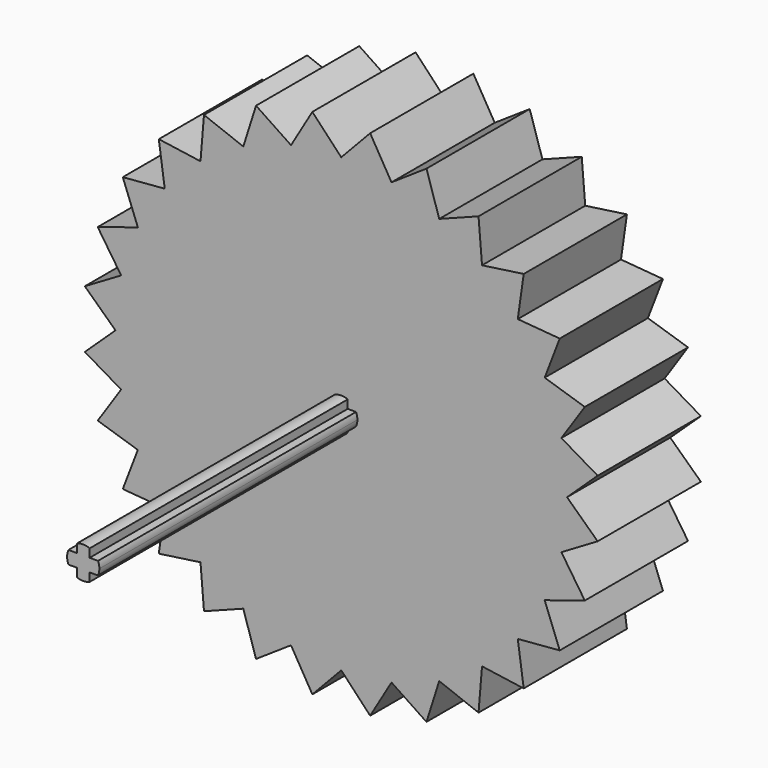
from build123d import *

# Parameters (mm, degrees)
F1_DEPTH = 5.08
F3_W     = 0.508
F3_H     = 0.508
F4_DEPTH = 12.7
F6_DEPTH = 2.54


with BuildPart() as f1:
    # F0 (on Front) → F1 (new body)
    with BuildSketch(Plane.XZ):
        with BuildLine():
            Line((-4.7297651602, 7.5273781311), (0, 0))
            Line((0, 0), (-3.8572264408, 8.0096132357))
            ThreePointArc((-3.8572264408, 8.0096132357), (-4.3002609064, 7.7807362208), (-4.7297651602, 7.5273781311))
        make_face()
        with BuildLine():
            Line((-5.5428243385, 6.9504818791), (0, 0))
            Line((0, 0), (-4.7297651602, 7.5273781311))
            ThreePointArc((-4.7297651602, 7.5273781311), (-5.144387823, 7.250336125), (-5.5428243385, 6.9504818791))
        make_face()
        with BuildLine():
            Line((-5.4054458974, 8.6027178642), (-5.5428243385, 6.9504818791))
            ThreePointArc((-5.5428243385, 6.9504818791), (-5.144387823, 7.250336125), (-4.7297651602, 7.5273781311))
            Line((-4.7297651602, 7.5273781311), (-5.4054458974, 8.6027178642))
        make_face()
        with BuildLine():
            Line((-5.4054458974, 8.6027178642), (-4.7297651602, 7.5273781311))
            ThreePointArc((-4.7297651602, 7.5273781311), (-4.3002609064, 7.7807362208), (-3.8572264408, 8.0096132357))
            Line((-3.8572264408, 8.0096132357), (-5.4054458974, 8.6027178642))
        make_face()
        with BuildLine():
            Line((-3.3556352695, 9.5898546359), (-3.8572264408, 8.0096132357))
            ThreePointArc((-3.8572264408, 8.0096132357), (-3.4020557137, 8.213289044), (-2.9361808608, 8.3911228064))
            Line((-2.9361808608, 8.3911228064), (-3.3556352695, 9.5898546359))
        make_face()
        with BuildLine():
            Line((-3.3556352695, 9.5898546359), (-2.9361808608, 8.3911228064))
            ThreePointArc((-2.9361808608, 8.3911228064), (-2.4610676966, 8.5425549921), (-1.9782111029, 8.6671091393))
            Line((-1.9782111029, 8.6671091393), (-3.3556352695, 9.5898546359))
        make_face()
        with BuildLine():
            Line((-2.9361808608, 8.3911228064), (0, 0))
            Line((0, 0), (-1.9782111029, 8.6671091393))
            ThreePointArc((-1.9782111029, 8.6671091393), (-2.4610676966, 8.5425549921), (-2.9361808608, 8.3911228064))
        make_face()
        with BuildLine():
            Line((-3.8572264408, 8.0096132357), (0, 0))
            Line((0, 0), (-2.9361808608, 8.3911228064))
            ThreePointArc((-2.9361808608, 8.3911228064), (-3.4020557137, 8.213289044), (-3.8572264408, 8.0096132357))
        make_face()
        with BuildLine():
            Line((-0.9953641926, 8.834101546), (0, 0))
            Line((0, 0), (0, 8.89))
            ThreePointArc((0, 8.89), (-0.4984662759, 8.8760143855), (-0.9953641926, 8.834101546))
        make_face()
        with BuildLine():
            ThreePointArc((-0.9953641926, 8.834101546), (-0.4984662759, 8.8760143855), (0, 8.89))
            Line((0, 8.89), (-1.1375590772, 10.0961160525))
            Line((-1.1375590772, 10.0961160525), (-0.9953641926, 8.834101546))
        make_face()
        with BuildLine():
            Line((-1.1375590772, 10.0961160525), (-1.9782111029, 8.6671091393))
            ThreePointArc((-1.9782111029, 8.6671091393), (-1.4891303252, 8.7643933546), (-0.9953641926, 8.834101546))
            Line((-0.9953641926, 8.834101546), (-1.1375590772, 10.0961160525))
        make_face()
        with BuildLine():
            Line((-1.9782111029, 8.6671091393), (0, 0))
            Line((0, 0), (-0.9953641926, 8.834101546))
            ThreePointArc((-0.9953641926, 8.834101546), (-1.4891303252, 8.7643933546), (-1.9782111029, 8.6671091393))
        make_face()
        with BuildLine():
            Line((-6.2861792847, 6.2861792847), (0, 0))
            Line((0, 0), (-5.5428243385, 6.9504818791))
            ThreePointArc((-5.5428243385, 6.9504818791), (-5.923821078, 6.6287588458), (-6.2861792847, 6.2861792847))
        make_face()
        with BuildLine():
            Line((-7.1842048969, 7.1842048969), (-6.2861792847, 6.2861792847))
            ThreePointArc((-6.2861792847, 6.2861792847), (-5.923821078, 6.6287588458), (-5.5428243385, 6.9504818791))
            Line((-5.5428243385, 6.9504818791), (-7.1842048969, 7.1842048969))
        make_face()
        with BuildLine():
            Line((-6.9504818791, 5.5428243385), (0, 0))
            Line((0, 0), (-6.2861792847, 6.2861792847))
            ThreePointArc((-6.2861792847, 6.2861792847), (-6.6287588458, 5.923821078), (-6.9504818791, 5.5428243385))
        make_face()
        with BuildLine():
            Line((-7.1842048969, 7.1842048969), (-6.9504818791, 5.5428243385))
            ThreePointArc((-6.9504818791, 5.5428243385), (-6.6287588458, 5.923821078), (-6.2861792847, 6.2861792847))
            Line((-6.2861792847, 6.2861792847), (-7.1842048969, 7.1842048969))
        make_face()
        with BuildLine():
            Line((-7.5273781311, 4.7297651602), (0, 0))
            Line((0, 0), (-6.9504818791, 5.5428243385))
            ThreePointArc((-6.9504818791, 5.5428243385), (-7.250336125, 5.144387823), (-7.5273781311, 4.7297651602))
        make_face()
        with BuildLine():
            Line((-8.6027178642, 5.4054458974), (-7.5273781311, 4.7297651602))
            ThreePointArc((-7.5273781311, 4.7297651602), (-7.250336125, 5.144387823), (-6.9504818791, 5.5428243385))
            Line((-6.9504818791, 5.5428243385), (-8.6027178642, 5.4054458974))
        make_face()
        with BuildLine():
            Line((-8.6027178642, 5.4054458974), (-8.0096132357, 3.8572264408))
            ThreePointArc((-8.0096132357, 3.8572264408), (-7.7807362208, 4.3002609064), (-7.5273781311, 4.7297651602))
            Line((-7.5273781311, 4.7297651602), (-8.6027178642, 5.4054458974))
        make_face()
        with BuildLine():
            Line((-8.0096132357, 3.8572264408), (0, 0))
            Line((0, 0), (-7.5273781311, 4.7297651602))
            ThreePointArc((-7.5273781311, 4.7297651602), (-7.7807362208, 4.3002609064), (-8.0096132357, 3.8572264408))
        make_face()
        with BuildLine():
            Line((-8.3911228064, 2.9361808608), (0, 0))
            Line((0, 0), (-8.0096132357, 3.8572264408))
            ThreePointArc((-8.0096132357, 3.8572264408), (-8.213289044, 3.4020557137), (-8.3911228064, 2.9361808608))
        make_face()
        with BuildLine():
            Line((-9.5898546359, 3.3556352695), (-8.3911228064, 2.9361808608))
            ThreePointArc((-8.3911228064, 2.9361808608), (-8.213289044, 3.4020557137), (-8.0096132357, 3.8572264408))
            Line((-8.0096132357, 3.8572264408), (-9.5898546359, 3.3556352695))
        make_face()
        with BuildLine():
            Line((-9.5898546359, 3.3556352695), (-8.6671091393, 1.9782111029))
            ThreePointArc((-8.6671091393, 1.9782111029), (-8.5425549921, 2.4610676966), (-8.3911228064, 2.9361808608))
            Line((-8.3911228064, 2.9361808608), (-9.5898546359, 3.3556352695))
        make_face()
        with BuildLine():
            Line((-8.6671091393, 1.9782111029), (0, 0))
            Line((0, 0), (-8.3911228064, 2.9361808608))
            ThreePointArc((-8.3911228064, 2.9361808608), (-8.5425549921, 2.4610676966), (-8.6671091393, 1.9782111029))
        make_face()
        with BuildLine():
            Line((-8.834101546, 0.9953641926), (0, 0))
            Line((0, 0), (-8.6671091393, 1.9782111029))
            ThreePointArc((-8.6671091393, 1.9782111029), (-8.7643933546, 1.4891303252), (-8.834101546, 0.9953641926))
        make_face()
        with BuildLine():
            Line((-10.0961160525, 1.1375590772), (-8.834101546, 0.9953641926))
            ThreePointArc((-8.834101546, 0.9953641926), (-8.7643933546, 1.4891303252), (-8.6671091393, 1.9782111029))
            Line((-8.6671091393, 1.9782111029), (-10.0961160525, 1.1375590772))
        make_face()
        with BuildLine():
            Line((-10.0961160525, 1.1375590772), (-8.89, 0))
            ThreePointArc((-8.89, 0), (-8.8760143855, 0.4984662759), (-8.834101546, 0.9953641926))
            Line((-8.834101546, 0.9953641926), (-10.0961160525, 1.1375590772))
        make_face()
        with BuildLine():
            Line((-8.89, 0), (0, 0))
            Line((0, 0), (-8.834101546, 0.9953641926))
            ThreePointArc((-8.834101546, 0.9953641926), (-8.8760143855, 0.4984662759), (-8.89, 0))
        make_face()
        with BuildLine():
            Line((-8.834101546, -0.9953641926), (0, 0))
            Line((0, 0), (-8.89, 0))
            ThreePointArc((-8.89, 0), (-8.8760143855, -0.4984662759), (-8.834101546, -0.9953641926))
        make_face()
        with BuildLine():
            Line((-10.0961160525, -1.1375590772), (-8.834101546, -0.9953641926))
            ThreePointArc((-8.834101546, -0.9953641926), (-8.8760143855, -0.4984662759), (-8.89, 0))
            Line((-8.89, 0), (-10.0961160525, -1.1375590772))
        make_face()
        with BuildLine():
            Line((-10.0961160525, -1.1375590772), (-8.6671091393, -1.9782111029))
            ThreePointArc((-8.6671091393, -1.9782111029), (-8.7643933546, -1.4891303252), (-8.834101546, -0.9953641926))
            Line((-8.834101546, -0.9953641926), (-10.0961160525, -1.1375590772))
        make_face()
        with BuildLine():
            Line((-8.6671091393, -1.9782111029), (0, 0))
            Line((0, 0), (-8.834101546, -0.9953641926))
            ThreePointArc((-8.834101546, -0.9953641926), (-8.7643933546, -1.4891303252), (-8.6671091393, -1.9782111029))
        make_face()
        with BuildLine():
            Line((-8.3911228064, -2.9361808608), (0, 0))
            Line((0, 0), (-8.6671091393, -1.9782111029))
            ThreePointArc((-8.6671091393, -1.9782111029), (-8.5425549921, -2.4610676966), (-8.3911228064, -2.9361808608))
        make_face()
        with BuildLine():
            Line((-9.5898546359, -3.3556352695), (-8.3911228064, -2.9361808608))
            ThreePointArc((-8.3911228064, -2.9361808608), (-8.5425549921, -2.4610676966), (-8.6671091393, -1.9782111029))
            Line((-8.6671091393, -1.9782111029), (-9.5898546359, -3.3556352695))
        make_face()
        with BuildLine():
            Line((-9.5898546359, -3.3556352695), (-8.0096132357, -3.8572264408))
            ThreePointArc((-8.0096132357, -3.8572264408), (-8.213289044, -3.4020557137), (-8.3911228064, -2.9361808608))
            Line((-8.3911228064, -2.9361808608), (-9.5898546359, -3.3556352695))
        make_face()
        with BuildLine():
            Line((-8.0096132357, -3.8572264408), (0, 0))
            Line((0, 0), (-8.3911228064, -2.9361808608))
            ThreePointArc((-8.3911228064, -2.9361808608), (-8.213289044, -3.4020557137), (-8.0096132357, -3.8572264408))
        make_face()
        with BuildLine():
            Line((-7.5273781311, -4.7297651602), (0, 0))
            Line((0, 0), (-8.0096132357, -3.8572264408))
            ThreePointArc((-8.0096132357, -3.8572264408), (-7.7807362208, -4.3002609064), (-7.5273781311, -4.7297651602))
        make_face()
        with BuildLine():
            Line((-8.6027178642, -5.4054458974), (-7.5273781311, -4.7297651602))
            ThreePointArc((-7.5273781311, -4.7297651602), (-7.7807362208, -4.3002609064), (-8.0096132357, -3.8572264408))
            Line((-8.0096132357, -3.8572264408), (-8.6027178642, -5.4054458974))
        make_face()
        with BuildLine():
            Line((-8.6027178642, -5.4054458974), (-6.9504818791, -5.5428243385))
            ThreePointArc((-6.9504818791, -5.5428243385), (-7.250336125, -5.144387823), (-7.5273781311, -4.7297651602))
            Line((-7.5273781311, -4.7297651602), (-8.6027178642, -5.4054458974))
        make_face()
        with BuildLine():
            Line((-6.9504818791, -5.5428243385), (0, 0))
            Line((0, 0), (-7.5273781311, -4.7297651602))
            ThreePointArc((-7.5273781311, -4.7297651602), (-7.250336125, -5.144387823), (-6.9504818791, -5.5428243385))
        make_face()
        with BuildLine():
            Line((-6.2861792847, -6.2861792847), (0, 0))
            Line((0, 0), (-6.9504818791, -5.5428243385))
            ThreePointArc((-6.9504818791, -5.5428243385), (-6.6287588458, -5.923821078), (-6.2861792847, -6.2861792847))
        make_face()
        with BuildLine():
            Line((-5.5428243385, -6.9504818791), (0, 0))
            Line((0, 0), (-6.2861792847, -6.2861792847))
            ThreePointArc((-6.2861792847, -6.2861792847), (-5.923821078, -6.6287588458), (-5.5428243385, -6.9504818791))
        make_face()
        with BuildLine():
            Line((-4.7297651602, -7.5273781311), (0, 0))
            Line((0, 0), (-5.5428243385, -6.9504818791))
            ThreePointArc((-5.5428243385, -6.9504818791), (-5.144387823, -7.250336125), (-4.7297651602, -7.5273781311))
        make_face()
        with BuildLine():
            Line((-7.1842048969, -7.1842048969), (-6.2861792847, -6.2861792847))
            ThreePointArc((-6.2861792847, -6.2861792847), (-6.6287588458, -5.923821078), (-6.9504818791, -5.5428243385))
            Line((-6.9504818791, -5.5428243385), (-7.1842048969, -7.1842048969))
        make_face()
        with BuildLine():
            Line((-7.1842048969, -7.1842048969), (-5.5428243385, -6.9504818791))
            ThreePointArc((-5.5428243385, -6.9504818791), (-5.923821078, -6.6287588458), (-6.2861792847, -6.2861792847))
            Line((-6.2861792847, -6.2861792847), (-7.1842048969, -7.1842048969))
        make_face()
        with BuildLine():
            Line((-5.4054458974, -8.6027178642), (-4.7297651602, -7.5273781311))
            ThreePointArc((-4.7297651602, -7.5273781311), (-5.144387823, -7.250336125), (-5.5428243385, -6.9504818791))
            Line((-5.5428243385, -6.9504818791), (-5.4054458974, -8.6027178642))
        make_face()
        with BuildLine():
            Line((-5.4054458974, -8.6027178642), (-3.8572264408, -8.0096132357))
            ThreePointArc((-3.8572264408, -8.0096132357), (-4.3002609064, -7.7807362208), (-4.7297651602, -7.5273781311))
            Line((-4.7297651602, -7.5273781311), (-5.4054458974, -8.6027178642))
        make_face()
        with BuildLine():
            Line((-2.9361808608, -8.3911228064), (0, 0))
            Line((0, 0), (-3.8572264408, -8.0096132357))
            ThreePointArc((-3.8572264408, -8.0096132357), (-3.4020557137, -8.213289044), (-2.9361808608, -8.3911228064))
        make_face()
        with BuildLine():
            Line((-3.3556352695, -9.5898546359), (-2.9361808608, -8.3911228064))
            ThreePointArc((-2.9361808608, -8.3911228064), (-3.4020557137, -8.213289044), (-3.8572264408, -8.0096132357))
            Line((-3.8572264408, -8.0096132357), (-3.3556352695, -9.5898546359))
        make_face()
        with BuildLine():
            Line((-3.3556352695, -9.5898546359), (-1.9782111029, -8.6671091393))
            ThreePointArc((-1.9782111029, -8.6671091393), (-2.4610676966, -8.5425549921), (-2.9361808608, -8.3911228064))
            Line((-2.9361808608, -8.3911228064), (-3.3556352695, -9.5898546359))
        make_face()
        with BuildLine():
            Line((-1.9782111029, -8.6671091393), (0, 0))
            Line((0, 0), (-2.9361808608, -8.3911228064))
            ThreePointArc((-2.9361808608, -8.3911228064), (-2.4610676966, -8.5425549921), (-1.9782111029, -8.6671091393))
        make_face()
        with BuildLine():
            Line((-0.9953641926, -8.834101546), (0, 0))
            Line((0, 0), (-1.9782111029, -8.6671091393))
            ThreePointArc((-1.9782111029, -8.6671091393), (-1.4891303252, -8.7643933546), (-0.9953641926, -8.834101546))
        make_face()
        with BuildLine():
            Line((-1.1375590772, -10.0961160525), (0, -8.89))
            ThreePointArc((0, -8.89), (-0.4984662759, -8.8760143855), (-0.9953641926, -8.834101546))
            Line((-0.9953641926, -8.834101546), (-1.1375590772, -10.0961160525))
        make_face()
        with BuildLine():
            ThreePointArc((-0.9953641926, -8.834101546), (-1.4891303252, -8.7643933546), (-1.9782111029, -8.6671091393))
            Line((-1.9782111029, -8.6671091393), (-1.1375590772, -10.0961160525))
            Line((-1.1375590772, -10.0961160525), (-0.9953641926, -8.834101546))
        make_face()
        with BuildLine():
            Line((0, -8.89), (0, 0))
            Line((0, 0), (-0.9953641926, -8.834101546))
            ThreePointArc((-0.9953641926, -8.834101546), (-0.4984662759, -8.8760143855), (0, -8.89))
        make_face()
        with BuildLine():
            Line((-3.8572264408, -8.0096132357), (0, 0))
            Line((0, 0), (-4.7297651602, -7.5273781311))
            ThreePointArc((-4.7297651602, -7.5273781311), (-4.3002609064, -7.7807362208), (-3.8572264408, -8.0096132357))
        make_face()
    extrude(amount=F1_DEPTH)

    # F2: F1 across plane


with BuildPart() as f1_1:
    add(f1.part)
    add(f1.part.mirror(Plane.YZ))

    # F3 (on face) → F4 (join)
    with BuildSketch(Plane.XZ.offset(5.08)):
        with BuildLine():
            Line((0.254, 0.254), (0.254, 0.5819871133))
            ThreePointArc((0.254, 0.5819871133), (0, 0.635), (-0.254, 0.5819871133))
            Line((-0.254, 0.5819871133), (-0.254, 0.254))
            Line((-0.254, 0.254), (0.254, 0.254))
        make_face()
        with BuildLine():
            Line((-0.254, -0.254), (-0.254, 0.254))
            Line((-0.254, 0.254), (-0.5819871133, 0.254))
            ThreePointArc((-0.5819871133, 0.254), (-0.635, 0), (-0.5819871133, -0.254))
            Line((-0.5819871133, -0.254), (-0.254, -0.254))
        make_face()
        Rectangle(F3_W, F3_H)
        with BuildLine():
            ThreePointArc((0.5819871133, -0.254), (0.6216055087, -0.1297366237), (0.635, 0))
            ThreePointArc((0.635, 0), (0.6216055087, 0.1297366237), (0.5819871133, 0.254))
            Line((0.5819871133, 0.254), (0.254, 0.254))
            Line((0.254, 0.254), (0.254, -0.254))
            Line((0.254, -0.254), (0.5819871133, -0.254))
        make_face()
        with BuildLine():
            ThreePointArc((-0.254, -0.5819871133), (0, -0.635), (0.254, -0.5819871133))
            Line((0.254, -0.5819871133), (0.254, -0.254))
            Line((0.254, -0.254), (-0.254, -0.254))
            Line((-0.254, -0.254), (-0.254, -0.5819871133))
        make_face()
    extrude(amount=F4_DEPTH)

    # F5 (on face) → F6 (cut)
    with BuildSketch(Plane(origin=(0, 0, 0), x_dir=(-1, 0, 0), z_dir=(0, 1, 0))):
        with BuildLine():
            ThreePointArc((-8.2030942927, -0.9242667502), (-9.4681025735, -1.0309689266), (-8.199101546, -0.9953641926))
            ThreePointArc((-8.199101546, -0.9953641926), (-8.2001005184, -0.9597594586), (-8.2030942927, -0.9242667502))
        make_face()
    extrude(amount=-F6_DEPTH, mode=Mode.SUBTRACT)


solid = f1_1.part
